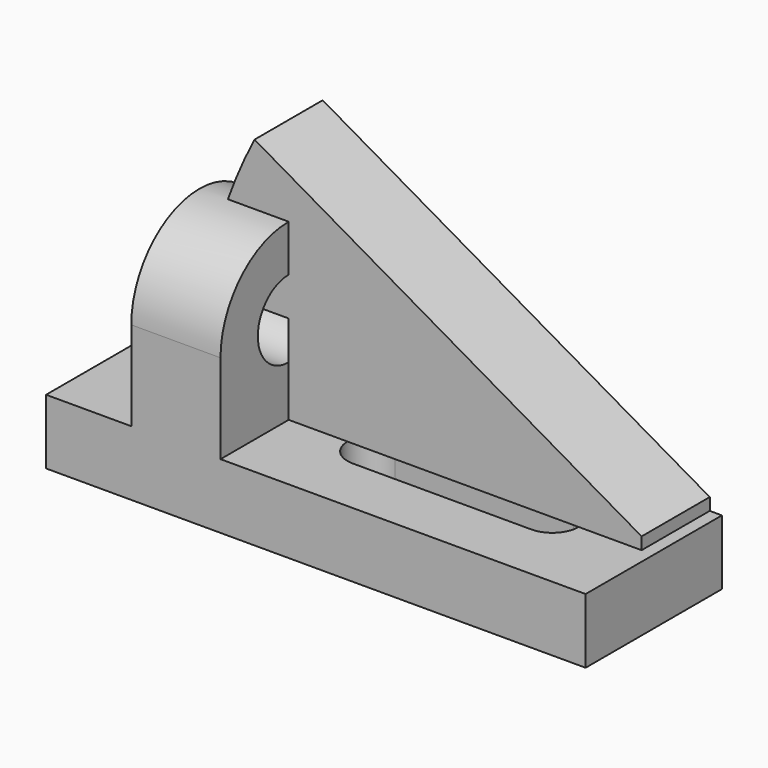
from build123d import *

# Parameters (mm, degrees)
F0_W     = 42
F0_H     = 16
F1_DEPTH = 133
F2_START = 21
F0_R     = 9.5
F2_DEPTH = 22
F4_DEPTH = 25
F6_START = -21
F6_DEPTH = 21


with BuildPart() as f1:
    # F0 (on Right) → F1 (new body)
    with BuildSketch(Plane.YZ):
        with Locations((21, 8)):
            Rectangle(F0_W, F0_H)
    extrude(amount=F1_DEPTH)

    # F0 (on Right) → F2 (join)
    with BuildSketch(Plane.YZ.offset(F2_START)):
        with BuildLine():
            Line((0, 38), (0, 16))
            Line((0, 16), (42, 16))
            Line((42, 16), (42, 38))
            ThreePointArc((42, 38), (21, 59), (0, 38))
        make_face()
        with Locations((21, 38)):
            Circle(F0_R, mode=Mode.SUBTRACT)
    extrude(amount=F2_DEPTH)

    # F3 (on face) → F4 (cut)
    with BuildSketch(Plane.XY.offset(16)):
        with BuildLine():
            ThreePointArc((108, 14.5), (114.5, 21), (108, 27.5))
            Line((108, 27.5), (64, 27.5))
            ThreePointArc((64, 27.5), (57.5, 21), (64, 14.5))
            Line((64, 14.5), (108, 14.5))
        make_face()
    extrude(amount=-F4_DEPTH, mode=Mode.SUBTRACT)

    # F5 (on face) → F6 (join)
    with BuildSketch(Plane.XZ.offset(F6_START)):
        with BuildLine():
            Line((43, 16), (130, 16))
            Line((130, 16), (130, 19))
            Line((130, 19), (34.5883966818, 74.0859148596))
            ThreePointArc((34.5883966818, 74.0859148596), (27.1610557671, 56.5174050032), (22.5868188266, 38))
            Line((22.5868188266, 38), (43, 38))
            Line((43, 38), (43, 16))
        make_face()
    extrude(amount=-F6_DEPTH)


solid = f1.part
